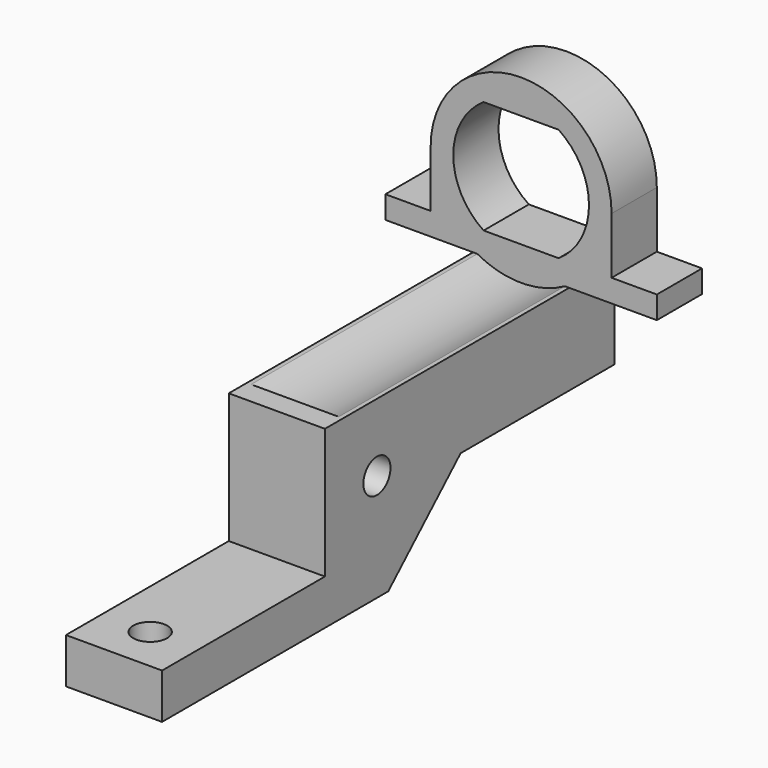
from build123d import *

# Parameters (mm, degrees)
F1_DEPTH      = 5
F2_DEPTH      = 32
F3_R          = 1.5
F4_DEPTH      = 25
F5_DEPTH      = 25
F6_R          = 8
F7_DEPTH      = 25
F9_DEPTH      = 4.25
F9_DEPTH_BACK = 4.25
F10_R         = 1.5
F11_DEPTH     = 25


with BuildPart() as f1:
    # F0 (on Front) → F1 (new body)
    with BuildSketch(Plane.XZ):
        with BuildLine():
            Line((-8, 7), (-8, 2))
            Line((-8, 2), (-12, 2))
            Line((-12, 2), (-12, 0))
            Line((-12, 0), (-4.25, 0))
            Line((-4.25, 0), (0, 0))
            Line((0, 0), (4.25, 0))
            Line((4.25, 0), (12, 0))
            Line((12, 0), (12, 2))
            Line((12, 2), (8, 2))
            Line((8, 2), (8, 7))
            ThreePointArc((8, 7), (0, 15), (-8, 7))
        make_face()
        with BuildLine():
            ThreePointArc((3.316625, 12), (6, 7), (3.316625, 2))
            Line((3.316625, 2), (-3.316625, 2))
            ThreePointArc((-3.316625, 2), (-6, 7), (-3.316625, 12))
            Line((-3.316625, 12), (3.316625, 12))
        make_face(mode=Mode.SUBTRACT)
    extrude(amount=F1_DEPTH)

    # F0 (on Front) → F2 (join)
    with BuildSketch(Plane.XZ):
        Polygon((0, 0), (-4.25, 0), (-4.25, -8), (4.25, -8), (4.25, 0), align=None)
    extrude(amount=F2_DEPTH)

    # F3 (on Right) → F4 (cut)
    with BuildSketch(Plane.YZ):
        with Locations((-23.75, -4)):
            Circle(F3_R)
    extrude(amount=-F4_DEPTH, mode=Mode.SUBTRACT)

    # F3 (on Right) → F5 (cut)
    with BuildSketch(Plane.YZ):
        with Locations((-26.25, -6)):
            Circle(F3_R)
    extrude(amount=F5_DEPTH, mode=Mode.SUBTRACT)

    # F6 (on face) → F7 (cut)
    with BuildSketch(Plane.XZ.offset(5)):
        with Locations((0, 7)):
            Circle(F6_R)
    extrude(amount=F7_DEPTH, mode=Mode.SUBTRACT)

    # F8 (on Right) → F9 (join, two sides)
    with BuildSketch(Plane.YZ) as f9_sk:
        Polygon((-32, -8), (-32, -11.5), (-50, -11.5), (-50, -15.5), (-25, -15.5), (-17, -8), align=None)
    extrude(amount=F9_DEPTH)
    extrude(f9_sk.sketch, amount=-F9_DEPTH_BACK)

    # F10 (on face) → F11 (cut)
    with BuildSketch(Plane.XY.offset(-11.5)):
        with Locations((0, -46)):
            Circle(F10_R)
    extrude(amount=-F11_DEPTH, mode=Mode.SUBTRACT)


solid = f1.part
